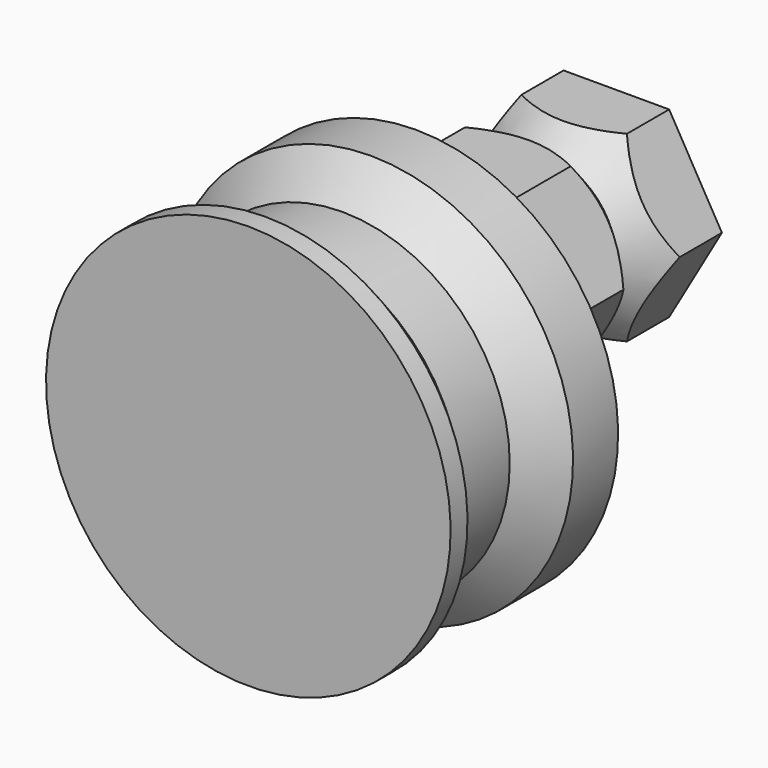
from build123d import *

# Parameters (mm, degrees)
PAD_DEPTH = 20


with BuildPart() as part:
    # Sketch039 → Revolution002 (revolve)
    with BuildSketch(Plane.YZ):
        Polygon((6.95, 11.5), (6.95, 0), (-4.95, 0), (-4.95, 11.5), (-3.75, 11.5), (-1.75, 9.5), (1.75, 9.5), (3.75, 11.5), (4.95, 11.5), align=None)
    revolve(axis=Axis((0, 0, 0), (0, 1, 0)))

    # Sketch041 (on DatumPlane) → Pad (new body)
    with BuildSketch(Plane(origin=(-3, 4.95, 0), x_dir=(0, 0, 1), z_dir=(0, 1, 0))):
        Polygon((0, 6), (-5.196152, 3), (-5.196152, -3), (0, -6), (5.196152, -3), (5.196152, 3), align=None)
    extrude(amount=PAD_DEPTH)

    # Sketch042 (on DatumPlane) → Groove (revolve, cut)
    with BuildSketch(Plane(origin=(-3, 4.95, 0), x_dir=(0, -1, 0), z_dir=(0, 0, 1))):
        Polygon((-17, 6), (-15, 4), (-13, 6), align=None)
    revolve(axis=Axis((-3, 4.95, 0), (0, -1, 0)), mode=Mode.SUBTRACT)


with BuildPart() as part_1:
    # Body007 placement: moved
    add(part.part.moved(Location((74, -46, 0))))


solid = part_1.part
